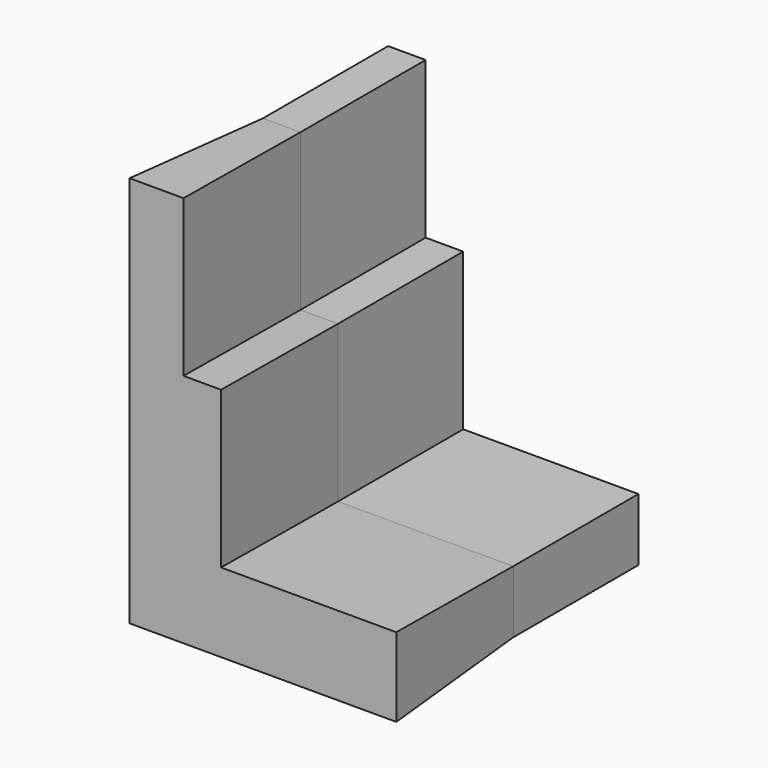
from build123d import *

# Parameters (mm, degrees)
F1_DEPTH      = 25
F1_TAPER      = -3
F1_DEPTH_BACK = 25


with BuildPart() as f1:
    # F0 (on Front) → F1 (new body, two sides)
    with BuildSketch(Plane.XZ) as f1_sk:
        Polygon((0, 60), (0, 0), (40, 0), (40, 10), (12, 10), (12, 35), (6, 35), (6, 60), align=None)
    extrude(amount=F1_DEPTH, taper=F1_TAPER)
    extrude(f1_sk.sketch, amount=-F1_DEPTH_BACK)


solid = f1.part
